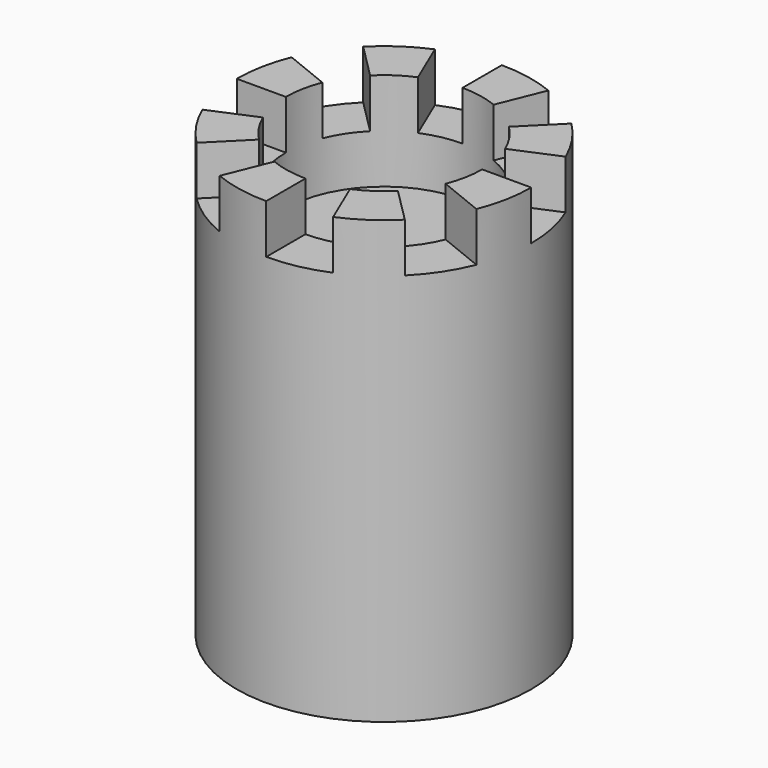
from build123d import *

# Parameters (mm, degrees)
CYLINDER002_R     = 20
CYLINDER002_DEPTH = 20
CYLINDER001_W     = 30
CYLINDER001_H     = 10
CYLINDER001_ANGLE = 23
ARRAY_COUNT       = 8
CYLINDER_R        = 30
CYLINDER_DEPTH    = 90


with BuildPart() as cylinder002:
    # Cylinder002 → Cylinder002 (new body)
    with BuildSketch(Plane.XY.offset(70)):
        Circle(CYLINDER002_R)
    extrude(amount=CYLINDER002_DEPTH)


with BuildPart() as array:
    # Cylinder001 → Cylinder001 (revolve)
    with BuildSketch(Plane(origin=(0, 0, 80), x_dir=(1, 0, 0), z_dir=(0, -1, 0))):
        with Locations((15, 5)):
            Rectangle(CYLINDER001_W, CYLINDER001_H)
    revolve(axis=Axis((0, 0, 80), (0, 0, 1)), revolution_arc=CYLINDER001_ANGLE)

    # Array: Array ×8 about axis
    array_axis = Axis((0, 0, 0), (0, 0, 1))


with BuildPart() as array_1:
    add(array.part)
    for i in range(1, ARRAY_COUNT):
        add(array.part.rotate(array_axis, i * 360 / ARRAY_COUNT))


with BuildPart() as cut001:
    # Cylinder → Cylinder (new body)
    with BuildSketch(Plane.XY):
        Circle(CYLINDER_R)
    extrude(amount=CYLINDER_DEPTH)

    # Cut: cut Array
    add(array_1.part, mode=Mode.SUBTRACT)

    # Cut001: cut Cylinder002
    add(cylinder002.part, mode=Mode.SUBTRACT)


solid = cut001.part
